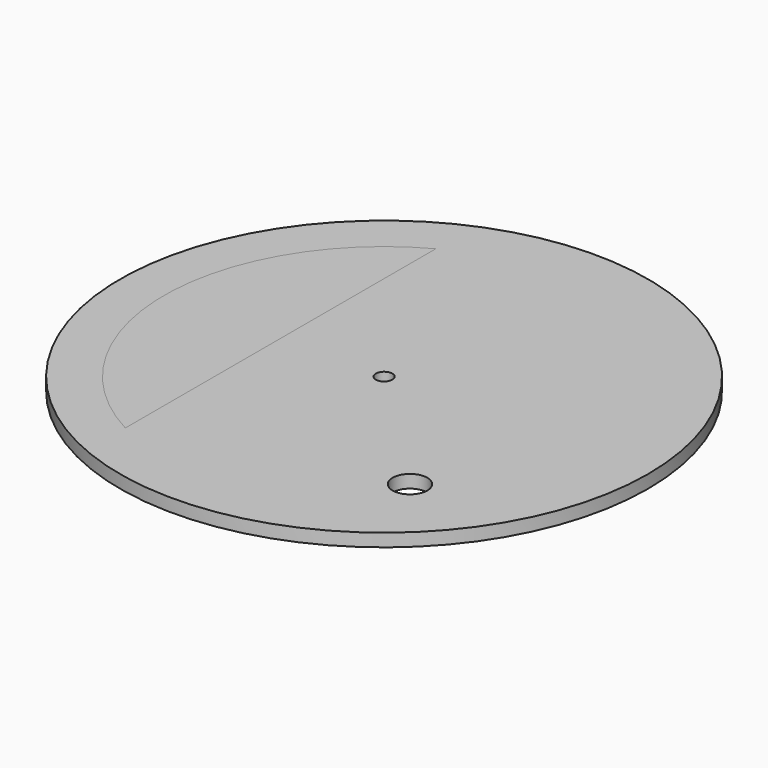
from build123d import *

# Parameters (mm, degrees)
F0_R     = 51
F0_R_2   = 3.35
F0_R_3   = 1.6
F1_DEPTH = 2.5
F2_DEPTH = 2.5


with BuildPart() as f1:
    # F0 (on Top) → F1 (new body)
    with BuildSketch(Plane.XY):
        Circle(F0_R)
        with BuildLine():
            ThreePointArc((-20, 37.5), (21.8660696057, 36.4434493428), (42.5, 0))
            ThreePointArc((42.5, 0), (21.8660696057, -36.4434493428), (-20, -37.5))
            ThreePointArc((-20, -37.5), (-42.5, 0), (-20, 37.5))
        make_face(mode=Mode.SUBTRACT)
        with BuildLine():
            ThreePointArc((-20, -37.5), (21.8660696057, -36.4434493428), (42.5, 0))
            ThreePointArc((42.5, 0), (21.8660696057, 36.4434493428), (-20, 37.5))
            Line((-20, 37.5), (-20, -37.5))
        make_face()
        with Locations((25, -25)):
            Circle(F0_R_2, mode=Mode.SUBTRACT)
        Circle(F0_R_3, mode=Mode.SUBTRACT)
    extrude(amount=F1_DEPTH)


with BuildPart() as f2:
    # F0 (on Top) → F2 (new body)
    with BuildSketch(Plane.XY):
        with BuildLine():
            Line((-20, -37.5), (-20, 37.5))
            ThreePointArc((-20, 37.5), (-42.5, 0), (-20, -37.5))
        make_face()
    extrude(amount=F2_DEPTH)


solid = Compound([f1.part, f2.part])
